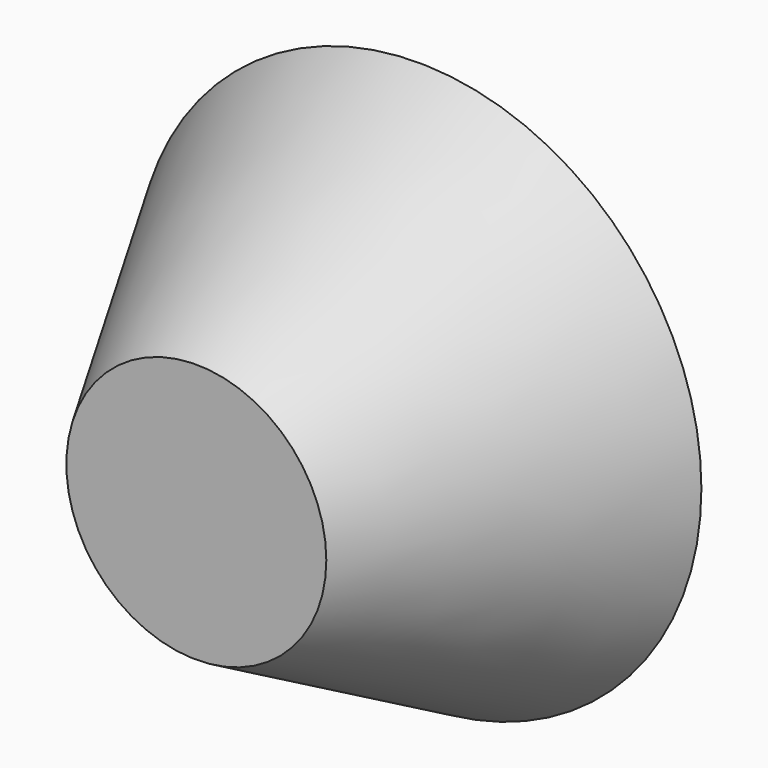
from build123d import *

# Parameters (mm, degrees)
F2_R = 50.965125
F3_R = 23.409777


with BuildPart() as f4:
    # F2 (on offset) → F4 section 0
    with BuildSketch(Plane.XZ.offset(-25)):
        Circle(F2_R)
    # F3 (on offset) → F4 section 1
    with BuildSketch(Plane.XZ.offset(25)):
        Circle(F3_R)
    loft()


solid = f4.part
